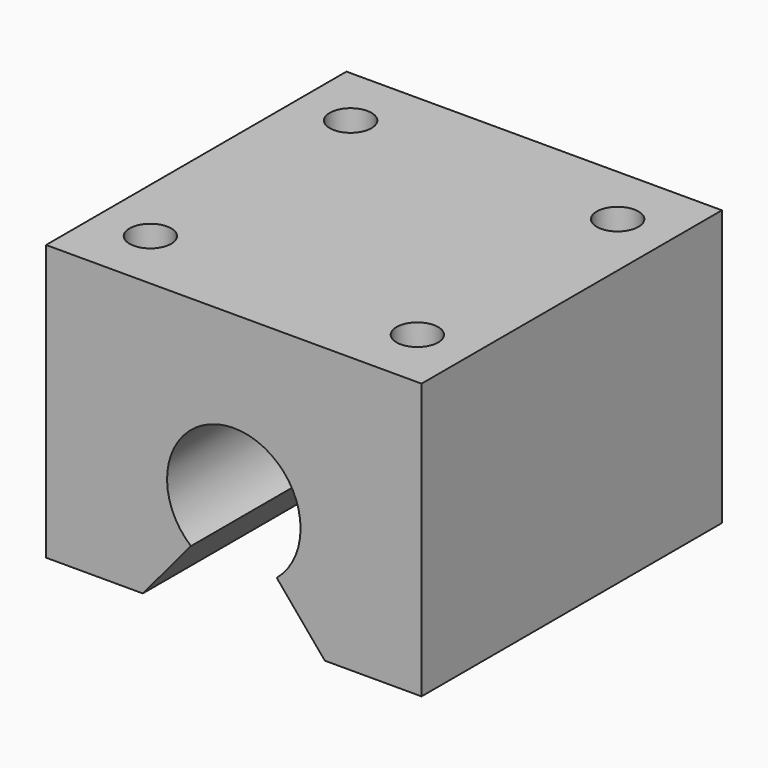
from build123d import *

# Parameters (mm, degrees)
F1_DEPTH = 45
F2_R     = 2.5
F3_DEPTH = 10


with BuildPart() as f1:
    # F0 (on Front) → F1 (new body)
    with BuildSketch(Plane.XZ):
        with BuildLine():
            Line((20.470409, 24.156032), (-24.529591, 24.156032))
            Line((-24.529591, 24.156032), (-24.529591, -8.843968))
            Line((-24.529591, -8.843968), (-12.937886, -8.843968))
            Line((-12.937886, -8.843968), (-7.171891, -1.972324))
            ThreePointArc((-7.171891, -1.972324), (-5.410537, 11.406494), (5.970409, 4.156032))
            ThreePointArc((5.970409, 4.156032), (5.220872, 0.775086), (3.11271, -1.972324))
            Line((3.11271, -1.972324), (8.878705, -8.843968))
            Line((8.878705, -8.843968), (20.470409, -8.843968))
            Line((20.470409, -8.843968), (20.470409, 24.156032))
        make_face()
    extrude(amount=F1_DEPTH)

    # F2 (on face) → F3 (cut)
    with BuildSketch(Plane.XY.offset(24.156032)):
        with Locations((13.970409, -7.5)):
            Circle(F2_R)
        with Locations((-18.029591, -37.5)):
            Circle(F2_R)
        with Locations((13.970409, -37.5)):
            Circle(F2_R)
        with Locations((-18.029591, -7.5)):
            Circle(F2_R)
    extrude(amount=-F3_DEPTH, mode=Mode.SUBTRACT)


solid = f1.part
